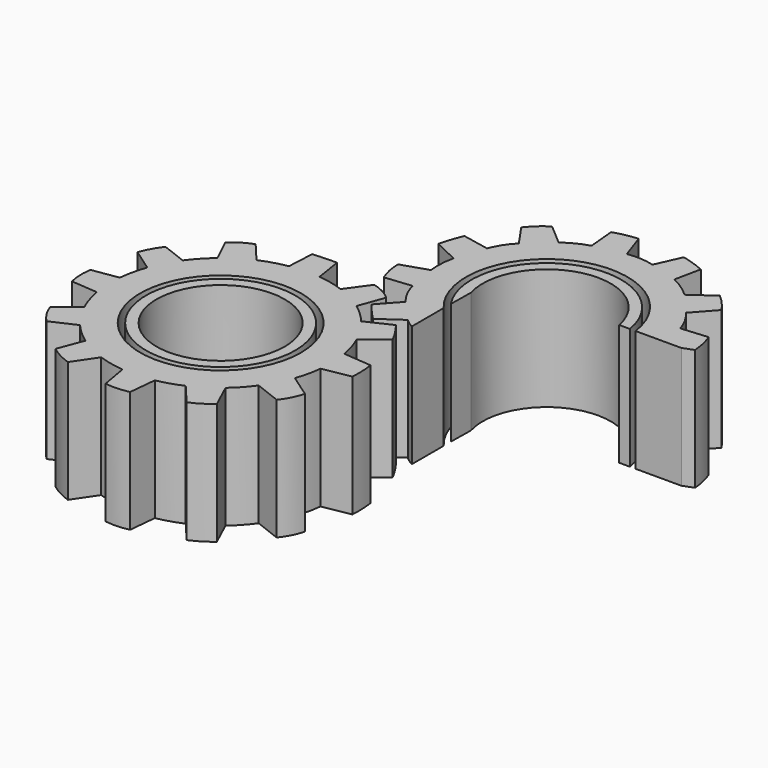
from build123d import *

# Parameters (mm, degrees)
F1_R     = 16.569011
F2_R     = 15.370584
F2_R_2   = 13.209188
F3_DEPTH = 25


with BuildPart() as f3:
    # F0 (on Top) + F1 (on Top) + F2 (on Top) → F3 (new body)
    with BuildSketch(Plane.XY):
        with BuildLine():
            Line((-30.537926, 5.583077), (-30.451002, 10.624681))
            ThreePointArc((-30.451002, 10.624681), (-20.846832, 27.150587), (-4.808364, 16.752837))
            Line((-4.808364, 16.752837), (-2.591797, 16.752837))
            ThreePointArc((-2.591797, 16.752837), (-23.521351, 28.572714), (-30.537926, 5.583077))
        make_face()
        with BuildLine():
            Line((-30.537926, -4.500129), (-30.537926, 3.714207))
            ThreePointArc((-30.537926, 3.714207), (-24.658235, 29.619104), (-1.41832, 16.752837))
            Line((-1.41832, 16.752837), (8.012955, 16.752837))
            Line((8.012955, 16.752837), (10.18606, 17.578617))
            ThreePointArc((10.18606, 17.578617), (9.824654, 20.05309), (9.099508, 22.446372))
            Line((9.099508, 22.446372), (3.623283, 21.968288))
            ThreePointArc((3.623283, 21.968288), (2.516429, 24.514752), (0.928633, 26.792582))
            Line((0.928633, 26.792582), (4.814233, 31.120945))
            ThreePointArc((4.814233, 31.120945), (3.266344, 33.094677), (1.464407, 34.839556))
            Line((1.464407, 34.839556), (-3.176177, 31.551197))
            ThreePointArc((-3.176177, 31.551197), (-5.341254, 33.310878), (-7.786029, 34.655165))
            Line((-7.786029, 34.655165), (-6.648932, 40.094789))
            ThreePointArc((-6.648932, 40.094789), (-8.995036, 41.000103), (-11.412445, 41.692872))
            Line((-11.412445, 41.692872), (-13.748104, 36.499105))
            ThreePointArc((-13.748104, 36.499105), (-16.498189, 36.972485), (-19.285366, 36.835745))
            Line((-19.285366, 36.835745), (-21.1202, 42.185187))
            ThreePointArc((-21.1202, 42.185187), (-23.606178, 41.848777), (-26.030317, 41.203167))
            Line((-26.030317, 41.203167), (-25.513461, 35.543609))
            ThreePointArc((-25.513461, 35.543609), (-28.053174, 34.549998), (-30.371893, 33.114396))
            Line((-30.371893, 33.114396), (-34.687627, 36.835745))
            ThreePointArc((-34.687627, 36.835745), (-36.667588, 35.314494), (-38.357291, 33.476193))
            Line((-38.357291, 33.476193), (-35.152793, 28.850343))
            ThreePointArc((-35.152793, 28.850343), (-36.861114, 26.735546), (-38.073018, 24.302026))
            Line((-38.073018, 24.302026), (-43.603361, 25.413262))
            ThreePointArc((-43.603361, 25.413262), (-44.501169, 23.08141), (-45.205608, 20.684045))
            Line((-45.205608, 20.684045), (-40.114593, 18.228985))
            ThreePointArc((-40.114593, 18.228985), (-40.508842, 15.515723), (-40.398866, 12.776174))
            Line((-40.398866, 12.776174), (-45.774151, 11.018869))
            ThreePointArc((-45.774151, 11.018869), (-45.517712, 8.483715), (-44.740446, 6.057067))
            Line((-44.740446, 6.057067), (-39.261788, 6.625607))
            ThreePointArc((-39.261788, 6.625607), (-38.260578, 3.95675), (-36.677517, 1.586277))
            Line((-36.677517, 1.586277), (-40.398866, -2.548558))
            ThreePointArc((-40.398866, -2.548558), (-38.790472, -4.48673), (-37.065156, -6.321595))
            Line((-37.065156, -6.321595), (-32.465152, -3.117098))
            ThreePointArc((-32.465152, -3.117098), (-31.543396, -3.866941), (-30.537926, -4.500129))
        make_face()
    with BuildSketch(Plane.XY):
        with BuildLine():
            Line((-72.246835, -0.400549), (-69.86662, -5.418052))
            ThreePointArc((-69.86662, -5.418052), (-71.915538, -7.367845), (-73.705302, -9.557936))
            Line((-73.705302, -9.557936), (-78.818306, -7.575694))
            ThreePointArc((-78.818306, -7.575694), (-80.174223, -9.614053), (-81.164025, -11.853185))
            Line((-81.164025, -11.853185), (-76.600832, -15.052426))
            ThreePointArc((-76.600832, -15.052426), (-77.396078, -17.768601), (-77.846158, -20.562783))
            Line((-77.846158, -20.562783), (-83.26827, -21.408547))
            ThreePointArc((-83.26827, -21.408547), (-83.397601, -23.900813), (-83.078548, -26.375955))
            Line((-83.078548, -26.375955), (-77.584769, -26.823953))
            ThreePointArc((-77.584769, -26.823953), (-76.917881, -29.52472), (-75.924733, -32.123285))
            Line((-75.924733, -32.123285), (-80.198139, -35.586357))
            ThreePointArc((-80.198139, -35.586357), (-79.127714, -37.840377), (-77.576451, -39.794859))
            Line((-77.576451, -39.794859), (-72.513014, -37.478207))
            ThreePointArc((-72.513014, -37.478207), (-70.592804, -39.462389), (-68.445291, -41.198008))
            Line((-68.445291, -41.198008), (-70.445001, -46.424884))
            ThreePointArc((-70.445001, -46.424884), (-68.314011, -47.772427), (-65.995231, -48.762504))
            Line((-65.995231, -48.762504), (-62.84346, -44.105949))
            ThreePointArc((-62.84346, -44.105949), (-60.225671, -44.855183), (-57.536856, -45.284664))
            Line((-57.536856, -45.284664), (-56.547172, -50.865881))
            ThreePointArc((-56.547172, -50.865881), (-54.095735, -50.971555), (-51.662136, -50.65801))
            Line((-51.662136, -50.65801), (-51.099671, -44.997298))
            ThreePointArc((-51.099671, -44.997298), (-48.506302, -44.344659), (-46.008002, -43.390719))
            Line((-46.008002, -43.390719), (-42.308107, -47.775354))
            ThreePointArc((-42.308107, -47.775354), (-40.132632, -46.643046), (-38.14302, -45.20908))
            Line((-38.14302, -45.20908), (-40.572969, -39.932777))
            ThreePointArc((-40.572969, -39.932777), (-38.628357, -38.050013), (-36.922384, -35.948591))
            Line((-36.922384, -35.948591), (-31.550601, -38.03277))
            ThreePointArc((-31.550601, -38.03277), (-30.184674, -35.924708), (-29.279564, -33.581536))
            Line((-29.279564, -33.581536), (-33.976404, -30.302956))
            ThreePointArc((-33.976404, -30.302956), (-33.241946, -27.761713), (-32.808973, -25.152139))
            Line((-32.808973, -25.152139), (-27.063029, -24.115844))
            ThreePointArc((-27.063029, -24.115844), (-27.041564, -21.658962), (-27.244711, -19.2104))
            Line((-27.244711, -19.2104), (-33.045982, -18.715576))
            ThreePointArc((-33.045982, -18.715576), (-33.675809, -16.124957), (-34.60587, -13.626361))
            Line((-34.60587, -13.626361), (-30.07897, -9.999067))
            ThreePointArc((-30.07897, -9.999067), (-31.345091, -7.787648), (-32.822385, -5.711345))
            Line((-32.822385, -5.711345), (-38.006458, -8.174356))
            ThreePointArc((-38.006458, -8.174356), (-39.864077, -6.218797), (-41.941117, -4.498081))
            Line((-41.941117, -4.498081), (-40.017035, 0.774743))
            ThreePointArc((-40.017035, 0.774743), (-42.036435, 2.18876), (-44.341095, 3.06395))
            Line((-44.341095, 3.06395), (-47.60949, -1.475693))
            ThreePointArc((-47.60949, -1.475693), (-50.241615, -0.699335), (-52.948346, -0.247204))
            Line((-52.948346, -0.247204), (-53.808771, 5.360264))
            ThreePointArc((-53.808771, 5.360264), (-56.30287, 5.311936), (-58.793426, 5.170537))
            Line((-58.793426, 5.170537), (-59.084319, -0.438512))
            ThreePointArc((-59.084319, -0.438512), (-61.836721, -1.082013), (-64.487461, -2.063535))
            Line((-64.487461, -2.063535), (-68.055578, 2.186643))
            ThreePointArc((-68.055578, 2.186643), (-70.298082, 1.130986), (-72.246835, -0.400549))
        make_face()
        with Locations((-55.317461, -22.758307)):
            Circle(F1_R, mode=Mode.SUBTRACT)
    with BuildSketch(Plane.XY):
        with Locations((-55.32084, -22.760384)):
            Circle(F2_R)
        with Locations((-55.32084, -22.760384)):
            Circle(F2_R_2, mode=Mode.SUBTRACT)
    extrude(amount=F3_DEPTH)


solid = f3.part
